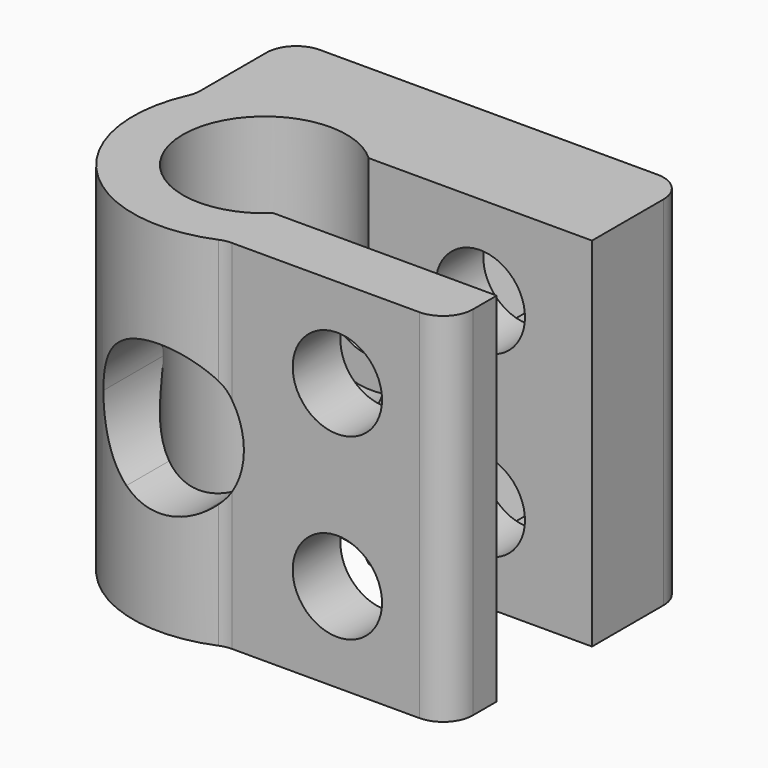
from build123d import *

# Parameters (mm, degrees)
F1_DEPTH = 24
F2_R     = 3
F3_DEPTH = 25
F4_START = -8
F4_DEPTH = 17
F5_DEPTH = 25
F6_DEPTH = 9
F7_DEPTH = 25
F8_R     = 2


with BuildPart() as f1:
    # F0 (on Top) → F1 (new body)
    with BuildSketch(Plane.XY):
        with BuildLine():
            ThreePointArc((3.7749172176, -4), (-5.5, 0), (3.7749172176, 4))
            Line((3.7749172176, 4), (18.7749172176, 4))
            Line((18.7749172176, 4), (18.7749172176, 8))
            Line((18.7749172176, 8), (18.7749172176, 12))
            Line((18.7749172176, 12), (3.7749172176, 12))
            Line((3.7749172176, 12), (-7.889866919, 12))
            Line((-7.889866919, 12), (-7.889866919, 4))
            ThreePointArc((-7.889866919, 4), (-6.3429648242, -6.1657762884), (3.7749172176, -8))
            Line((3.7749172176, -8), (18.7749172176, -8))
            Line((18.7749172176, -8), (18.7749172176, -4))
            Line((18.7749172176, -4), (3.7749172176, -4))
        make_face()
    extrude(amount=F1_DEPTH)

    # F2 (on Front) → F3 (cut, symmetric)
    with BuildSketch(Plane.XZ):
        with Locations((11.2749172176, 6)):
            Circle(F2_R)
        with Locations((11.2749172176, 18)):
            Circle(F2_R)
    extrude(amount=F3_DEPTH, both=True, mode=Mode.SUBTRACT)

    # F2 (on Front) → F4 (cut)
    with BuildSketch(Plane.XZ.offset(F4_START)):
        Polygon((13.7749172176, 13.6698729811), (16.2749172176, 18), (13.7749172176, 22.3301270189), (8.7749172176, 22.3301270189), (6.2749172176, 18), (8.7749172176, 13.6698729811), align=None)
        with Locations((11.2749172176, 18)):
            Circle(F2_R, mode=Mode.SUBTRACT)
        Polygon((8.7749172176, 10.3301270189), (6.2749172176, 6), (8.7749172176, 1.6698729811), (13.7749172176, 1.6698729811), (16.2749172176, 6), (13.7749172176, 10.3301270189), align=None)
        with Locations((11.2749172176, 6)):
            Circle(F2_R, mode=Mode.SUBTRACT)
    extrude(amount=-F4_DEPTH, mode=Mode.SUBTRACT)

    # F2 (on Front) → F5 (cut)
    with BuildSketch(Plane.XZ):
        with Locations((0, 12)):
            Circle(F2_R)
    extrude(amount=-F5_DEPTH, mode=Mode.SUBTRACT)

    # F2 (on Front) → F6 (cut)
    with BuildSketch(Plane.XZ):
        Polygon((2.5, 7.6698729811), (5, 12), (2.5, 16.3301270189), (-2.5, 16.3301270189), (-5, 12), (-2.5, 7.6698729811), align=None)
        with Locations((0, 12)):
            Circle(F2_R, mode=Mode.SUBTRACT)
        with Locations((0, 12)):
            Circle(F2_R)
        with BuildLine():
            ThreePointArc((2.5, 7.6698729811), (4.3301270189, 9.5), (5, 12))
            Line((5, 12), (2.5, 7.6698729811))
        make_face()
        with BuildLine():
            Line((2.5, 16.3301270189), (5, 12))
            ThreePointArc((5, 12), (4.3301270189, 14.5), (2.5, 16.3301270189))
        make_face()
        with BuildLine():
            Line((-2.5, 16.3301270189), (2.5, 16.3301270189))
            ThreePointArc((2.5, 16.3301270189), (0, 17), (-2.5, 16.3301270189))
        make_face()
        with BuildLine():
            Line((-5, 12), (-2.5, 16.3301270189))
            ThreePointArc((-2.5, 16.3301270189), (-4.3301270189, 14.5), (-5, 12))
        make_face()
        with BuildLine():
            ThreePointArc((-5, 12), (-4.3301270189, 9.5), (-2.5, 7.6698729811))
            Line((-2.5, 7.6698729811), (-5, 12))
        make_face()
        with BuildLine():
            ThreePointArc((-2.5, 7.6698729811), (0, 7), (2.5, 7.6698729811))
            Line((2.5, 7.6698729811), (-2.5, 7.6698729811))
        make_face()
    extrude(amount=-F6_DEPTH, mode=Mode.SUBTRACT)

    # F2 (on Front) → F7 (cut)
    with BuildSketch(Plane.XZ):
        with BuildLine():
            Line((-2.5, 16.3301270189), (2.5, 16.3301270189))
            ThreePointArc((2.5, 16.3301270189), (0, 17), (-2.5, 16.3301270189))
        make_face()
        Polygon((2.5, 7.6698729811), (5, 12), (2.5, 16.3301270189), (-2.5, 16.3301270189), (-5, 12), (-2.5, 7.6698729811), align=None)
        with Locations((0, 12)):
            Circle(F2_R, mode=Mode.SUBTRACT)
        with BuildLine():
            Line((2.5, 16.3301270189), (5, 12))
            ThreePointArc((5, 12), (4.3301270189, 14.5), (2.5, 16.3301270189))
        make_face()
        with BuildLine():
            ThreePointArc((2.5, 7.6698729811), (4.3301270189, 9.5), (5, 12))
            Line((5, 12), (2.5, 7.6698729811))
        make_face()
        with BuildLine():
            ThreePointArc((-2.5, 7.6698729811), (0, 7), (2.5, 7.6698729811))
            Line((2.5, 7.6698729811), (-2.5, 7.6698729811))
        make_face()
        with BuildLine():
            ThreePointArc((-5, 12), (-4.3301270189, 9.5), (-2.5, 7.6698729811))
            Line((-2.5, 7.6698729811), (-5, 12))
        make_face()
        with BuildLine():
            Line((-5, 12), (-2.5, 16.3301270189))
            ThreePointArc((-2.5, 16.3301270189), (-4.3301270189, 14.5), (-5, 12))
        make_face()
        with Locations((0, 12)):
            Circle(F2_R)
    extrude(amount=F7_DEPTH, mode=Mode.SUBTRACT)

    # F8
    f8_edges = [f1.edges().sort_by_distance(p)[0] for p in [
        (-7.889867, 12, 12),
        (-7.889867, 4, 12),
        (18.774917, -8, 12),
        (18.774917, 12, 12),
        (3.774917, -8, 19.63936),
        (3.774917, -8, 4.36064),
    ]]
    fillet(f8_edges, radius=F8_R)


solid = f1.part
